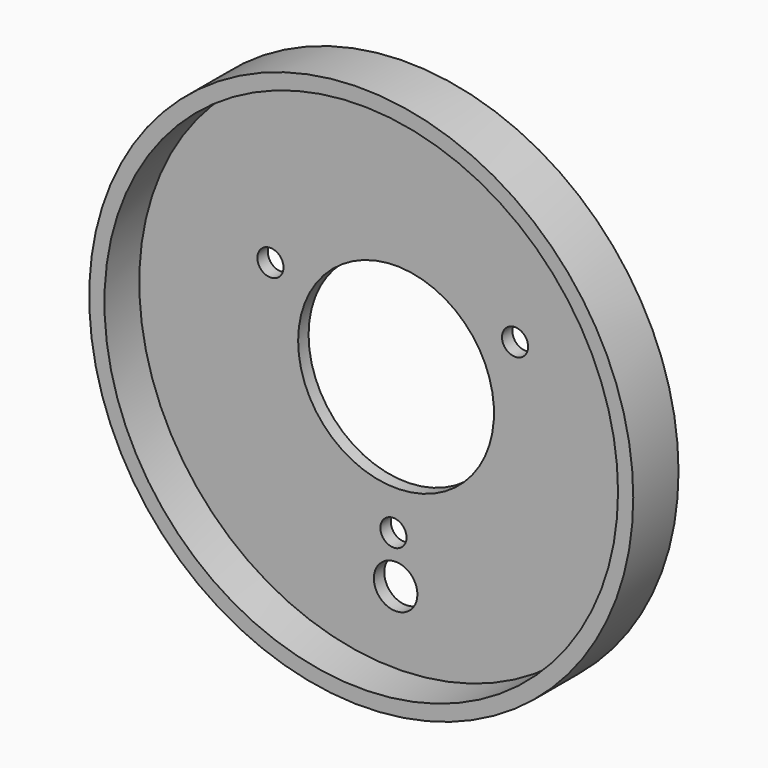
from build123d import *

# Parameters (mm, degrees)
F0_R           = 62.5
F1_DEPTH       = 13
F3_D           = 6
F4_D           = 45
F4_CBORE_D     = 118
F4_CBORE_DEPTH = 10
F5_D           = 10


with BuildPart() as f1:
    # F0 (on Front) → F1 (new body)
    with BuildSketch(Plane.XZ):
        Circle(F0_R)
    extrude(amount=F1_DEPTH)

    # F3 (through all)
    with Locations(Plane.XZ.offset(13)):
        with Locations((-28.862715, 13.725307), (27.342759, 15.962977), (-0.599952, -31.700085)):
            Hole(F3_D / 2)

    # F4 (through all)
    with Locations(Plane.XZ.offset(13)):
        with Locations((4.8e-05, -8.5e-05)):
            CounterBoreHole(F4_D / 2, F4_CBORE_D / 2, F4_CBORE_DEPTH)

    # F5 (through all)
    with Locations(Plane.XZ.offset(13)):
        with Locations((-0.099952, -42.400085)):
            Hole(F5_D / 2)


solid = f1.part
